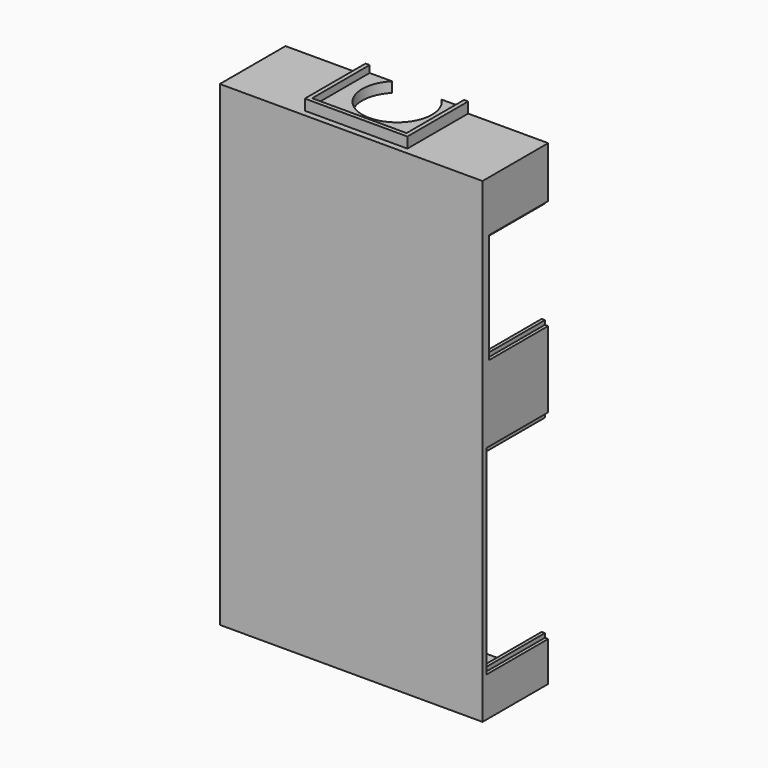
from build123d import *

# Parameters (mm, degrees)
F1_DEPTH  = 25.4
F2_W      = 77.216
F2_H      = 143.256
F3_DEPTH  = 24.13
F4_W      = 0.889
F4_H      = 6.858
F4_W_2    = 6.858
F4_H_2    = 0.889
F5_DEPTH  = 81.281
F6_W      = 5.0038
F6_H      = 0.6858
F7_DEPTH  = 81.281
F8_W      = 5.0038
F8_H      = 0.6858
F9_DEPTH  = 2.032
F10_W     = 5.207
F10_H     = 9.652
F10_W_2   = 3.175
F10_H_2   = 7.62
F10_W_3   = 9.652
F10_H_3   = 5.207
F10_W_4   = 7.62
F10_H_4   = 3.175
F10_W_5   = 9.271
F11_DEPTH = 12.954
F12_W     = 9.144
F12_H     = 4.699
F12_W_2   = 7.62
F12_H_2   = 3.175
F13_DEPTH = 12.954
F14_W     = 0.889
F14_H     = 6.858
F14_W_2   = 6.858
F14_H_2   = 0.889
F15_DEPTH = 81.281
F16_W     = 5.207
F16_H     = 9.652
F16_W_2   = 3.175
F16_H_2   = 7.62
F16_W_3   = 9.652
F16_H_3   = 5.207
F16_W_4   = 7.62
F16_H_4   = 3.175
F17_DEPTH = 12.954
F18_W     = 5.207
F18_H     = 9.652
F18_W_2   = 3.175
F18_H_2   = 7.62
F18_W_3   = 9.652
F18_H_3   = 5.207
F18_W_4   = 7.62
F18_H_4   = 3.175
F19_DEPTH = 12.954
F21_DEPTH = 25.4
F22_W     = 31.75
F22_H     = 23.495
F23_DEPTH = 3.302
F24_W     = 29.21
F24_H     = 22.225
F25_DEPTH = 2.159
F27_DEPTH = 25.4
F29_W     = 22.86
F29_H     = 33.02
F30_DEPTH = 25.4
F31_W     = 22.86
F31_H     = 0.508
F32_DEPTH = 1.016
F34_W     = 22.86
F34_H     = 0.508
F35_DEPTH = 1.016
F36_W     = 22.86
F36_H     = 0.762
F37_DEPTH = 1.016
F33_W     = 22.86
F33_H     = 17.526
F38_DEPTH = 25.4
F39_W     = 1.016
F39_H     = 1.016
F40_DEPTH = 25.4
F41_W     = 1.016
F41_H     = 1.27
F42_DEPTH = 25.4
F43_W     = 23.876
F43_H     = 61.722
F44_DEPTH = 81.281
F45_W     = 1.016
F45_H     = 1.27
F46_DEPTH = 25.4
F47_W     = 1.016
F47_H     = 1.778
F48_DEPTH = 25.4
F49_W     = 1.016
F49_H     = 1.778
F50_DEPTH = 25.4


with BuildPart() as f1:
    # F0 (on Front) → F1 (new body)
    with BuildSketch(Plane.XZ):
        Polygon((36.468155, -40.539946), (36.468155, 73.760054), (-44.811845, 73.760054), (-44.811845, -40.539946), (-44.811845, -73.559946), (36.468155, -73.559946), align=None)
    extrude(amount=F1_DEPTH)

    # F2 (on face) → F3 (cut)
    with BuildSketch(Plane(origin=(0, 0, 0), x_dir=(-1, 0, 0), z_dir=(0, 1, 0))):
        with Locations((4.171845, 0.100054)):
            Rectangle(F2_W, F2_H)
    extrude(amount=-F3_DEPTH, mode=Mode.SUBTRACT)

    # F4 (on face) → F5 (cut, through all)
    with BuildSketch(Plane.YZ.offset(36.468155)):
        with Locations((-12.7, -11.420451)):
            Rectangle(F4_W, F4_H)
        with Locations((-12.7, -19.865951)):
            Rectangle(F4_W_2, F4_H_2)
        with Locations((-12.7, -27.866951)):
            Rectangle(F4_W_2, F4_H_2)
        with Locations((-21.0185, -19.484951)):
            Rectangle(F4_W, F4_H)
        with Locations((-4.3815, -19.484951)):
            Rectangle(F4_W, F4_H)
    extrude(amount=-F5_DEPTH, mode=Mode.SUBTRACT)

    # F6 (on face) → F7 (cut, through all)
    with BuildSketch(Plane.YZ.offset(36.468155)):
        with Locations((-17.4371, 28.509954)):
            Rectangle(F6_W, F6_H)
        with Locations((-7.9629, 28.509954)):
            Rectangle(F6_W, F6_H)
        with Locations((-17.4371, 36.815754)):
            Rectangle(F6_W, F6_H)
        with Locations((-7.9629, 36.815754)):
            Rectangle(F6_W, F6_H)
        with Locations((-17.4371, 45.121554)):
            Rectangle(F6_W, F6_H)
        with Locations((-7.9629, 45.121554)):
            Rectangle(F6_W, F6_H)
        with Locations((-17.4371, 53.427354)):
            Rectangle(F6_W, F6_H)
        with Locations((-7.9629, 53.427354)):
            Rectangle(F6_W, F6_H)
    extrude(amount=-F7_DEPTH, mode=Mode.SUBTRACT)

    # F8 (on face) → F9 (join)
    with BuildSketch(Plane(origin=(-44.811845, 0, 0), x_dir=(0, -1, 0), z_dir=(-1, 0, 0))):
        with Locations((7.9629, 53.427354)):
            Rectangle(F8_W, F8_H)
        with Locations((17.4371, 53.427354)):
            Rectangle(F8_W, F8_H)
        with Locations((7.9629, 45.121554)):
            Rectangle(F8_W, F8_H)
        with Locations((17.4371, 45.121554)):
            Rectangle(F8_W, F8_H)
    extrude(amount=-F9_DEPTH)

    # F10 (on face) → F11 (join)
    with BuildSketch(Plane.YZ.offset(36.468155)):
        with Locations((-12.7, -11.420451)):
            Rectangle(F10_W, F10_H)
        with Locations((-12.7, -11.420451)):
            Rectangle(F10_W_2, F10_H_2, mode=Mode.SUBTRACT)
        with Locations((-21.0185, -19.484951)):
            Rectangle(F10_W, F10_H)
        with Locations((-21.0185, -19.484951)):
            Rectangle(F10_W_2, F10_H_2, mode=Mode.SUBTRACT)
        with Locations((-4.3815, -19.484951)):
            Rectangle(F10_W, F10_H)
        with Locations((-4.3815, -19.484951)):
            Rectangle(F10_W_2, F10_H_2, mode=Mode.SUBTRACT)
        with Locations((-12.7, -19.865951)):
            Rectangle(F10_W_3, F10_H_3)
        with Locations((-12.7, -19.865951)):
            Rectangle(F10_W_4, F10_H_4, mode=Mode.SUBTRACT)
        with Locations((-12.8905, -27.866951)):
            Rectangle(F10_W_5, F10_H_3)
        with Locations((-12.7, -27.866951)):
            Rectangle(F10_W_4, F10_H_4, mode=Mode.SUBTRACT)
    extrude(amount=-F11_DEPTH)

    # F12 (on face) → F13 (join)
    with BuildSketch(Plane.YZ.offset(36.468155)):
        with Locations((-17.4371, 28.509954)):
            Rectangle(F12_W, F12_H)
        with Locations((-17.4371, 28.509954)):
            Rectangle(F12_W_2, F12_H_2, mode=Mode.SUBTRACT)
        with Locations((-7.9629, 28.509954)):
            Rectangle(F12_W, F12_H)
        with Locations((-7.9629, 28.509954)):
            Rectangle(F12_W_2, F12_H_2, mode=Mode.SUBTRACT)
        with Locations((-17.4371, 36.815754)):
            Rectangle(F12_W, F12_H)
        with Locations((-17.4371, 36.815754)):
            Rectangle(F12_W_2, F12_H_2, mode=Mode.SUBTRACT)
        with Locations((-7.9629, 36.815754)):
            Rectangle(F12_W, F12_H)
        with Locations((-7.9629, 36.815754)):
            Rectangle(F12_W_2, F12_H_2, mode=Mode.SUBTRACT)
        with Locations((-17.4371, 45.121554)):
            Rectangle(F12_W, F12_H)
        with Locations((-17.4371, 45.121554)):
            Rectangle(F12_W_2, F12_H_2, mode=Mode.SUBTRACT)
        with Locations((-7.9629, 45.121554)):
            Rectangle(F12_W, F12_H)
        with Locations((-7.9629, 45.121554)):
            Rectangle(F12_W_2, F12_H_2, mode=Mode.SUBTRACT)
        with Locations((-17.4371, 53.427354)):
            Rectangle(F12_W, F12_H)
        with Locations((-17.4371, 53.427354)):
            Rectangle(F12_W_2, F12_H_2, mode=Mode.SUBTRACT)
        with Locations((-7.9629, 53.427354)):
            Rectangle(F12_W, F12_H)
        with Locations((-7.9629, 53.427354)):
            Rectangle(F12_W_2, F12_H_2, mode=Mode.SUBTRACT)
    extrude(amount=-F13_DEPTH)

    # F14 (on face) → F15 (cut, through all)
    with BuildSketch(Plane.YZ.offset(36.468155)):
        with Locations((-12.7, -40.586743)):
            Rectangle(F14_W, F14_H)
        with Locations((-12.7, -49.032243)):
            Rectangle(F14_W_2, F14_H_2)
        with Locations((-12.7, -57.033243)):
            Rectangle(F14_W_2, F14_H_2)
        with Locations((-21.0185, -48.714743)):
            Rectangle(F14_W, F14_H)
        with Locations((-4.3815, -48.714743)):
            Rectangle(F14_W, F14_H)
    extrude(amount=-F15_DEPTH, mode=Mode.SUBTRACT)

    # F16 (on face) → F17 (join)
    with BuildSketch(Plane(origin=(-44.811845, 0, 0), x_dir=(0, -1, 0), z_dir=(-1, 0, 0))):
        with Locations((4.3815, -19.484951)):
            Rectangle(F16_W, F16_H)
        with Locations((4.3815, -19.484951)):
            Rectangle(F16_W_2, F16_H_2, mode=Mode.SUBTRACT)
        with Locations((12.7, -19.865951)):
            Rectangle(F16_W_3, F16_H_3)
        with Locations((12.7, -19.865951)):
            Rectangle(F16_W_4, F16_H_4, mode=Mode.SUBTRACT)
        with Locations((21.0185, -19.484951)):
            Rectangle(F16_W, F16_H)
        with Locations((21.0185, -19.484951)):
            Rectangle(F16_W_2, F16_H_2, mode=Mode.SUBTRACT)
        with Locations((12.7, -11.420451)):
            Rectangle(F16_W, F16_H)
        with Locations((12.7, -11.420451)):
            Rectangle(F16_W_2, F16_H_2, mode=Mode.SUBTRACT)
        with Locations((12.7, -27.866951)):
            Rectangle(F16_W_3, F16_H_3)
        with Locations((12.7, -27.866951)):
            Rectangle(F16_W_4, F16_H_4, mode=Mode.SUBTRACT)
        with Locations((4.3815, -48.714743)):
            Rectangle(F16_W, F16_H)
        with Locations((4.3815, -48.714743)):
            Rectangle(F16_W_2, F16_H_2, mode=Mode.SUBTRACT)
        with Locations((12.7, -49.032243)):
            Rectangle(F16_W_3, F16_H_3)
        with Locations((12.7, -49.032243)):
            Rectangle(F16_W_4, F16_H_4, mode=Mode.SUBTRACT)
        with Locations((21.0185, -48.714743)):
            Rectangle(F16_W, F16_H)
        with Locations((21.0185, -48.714743)):
            Rectangle(F16_W_2, F16_H_2, mode=Mode.SUBTRACT)
        with Locations((12.7, -40.586743)):
            Rectangle(F16_W, F16_H)
        with Locations((12.7, -40.586743)):
            Rectangle(F16_W_2, F16_H_2, mode=Mode.SUBTRACT)
        with Locations((12.7, -57.033243)):
            Rectangle(F16_W_3, F16_H_3)
        with Locations((12.7, -57.033243)):
            Rectangle(F16_W_4, F16_H_4, mode=Mode.SUBTRACT)
    extrude(amount=-F17_DEPTH)

    # F18 (on face) → F19 (join)
    with BuildSketch(Plane.YZ.offset(36.468155)):
        with Locations((-12.7, -40.586743)):
            Rectangle(F18_W, F18_H)
        with Locations((-12.7, -40.586743)):
            Rectangle(F18_W_2, F18_H_2, mode=Mode.SUBTRACT)
        with Locations((-4.3815, -48.714743)):
            Rectangle(F18_W, F18_H)
        with Locations((-4.3815, -48.714743)):
            Rectangle(F18_W_2, F18_H_2, mode=Mode.SUBTRACT)
        with Locations((-12.7, -49.032243)):
            Rectangle(F18_W_3, F18_H_3)
        with Locations((-12.7, -49.032243)):
            Rectangle(F18_W_4, F18_H_4, mode=Mode.SUBTRACT)
        with Locations((-21.0185, -48.714743)):
            Rectangle(F18_W, F18_H)
        with Locations((-21.0185, -48.714743)):
            Rectangle(F18_W_2, F18_H_2, mode=Mode.SUBTRACT)
        with Locations((-12.7, -57.033243)):
            Rectangle(F18_W_3, F18_H_3)
        with Locations((-12.7, -57.033243)):
            Rectangle(F18_W_4, F18_H_4, mode=Mode.SUBTRACT)
    extrude(amount=-F19_DEPTH)

    # F20 (on face) → F21 (join)
    with BuildSketch(Plane(origin=(0, 0, 0), x_dir=(-1, 0, 0), z_dir=(0, 1, 0))):
        with BuildLine():
            ThreePointArc((-34.436155, 66.648054), (-30.844053, 68.135951), (-29.356155, 71.728054))
            Line((-29.356155, 71.728054), (-34.436155, 71.728054))
            Line((-34.436155, 71.728054), (-34.436155, 66.648054))
        make_face()
        with BuildLine():
            Line((42.779845, 71.728054), (37.699845, 71.728054))
            ThreePointArc((37.699845, 71.728054), (39.187742, 68.135951), (42.779845, 66.648054))
            Line((42.779845, 66.648054), (42.779845, 71.728054))
        make_face()
        with BuildLine():
            Line((-34.436155, -71.527946), (-29.356155, -71.527946))
            ThreePointArc((-29.356155, -71.527946), (-30.844053, -67.935844), (-34.436155, -66.447946))
            Line((-34.436155, -66.447946), (-34.436155, -71.527946))
        make_face()
        with BuildLine():
            ThreePointArc((42.779845, -66.447946), (39.187742, -67.935844), (37.699845, -71.527946))
            Line((37.699845, -71.527946), (42.779845, -71.527946))
            Line((42.779845, -71.527946), (42.779845, -66.447946))
        make_face()
    extrude(amount=-F21_DEPTH)

    # F22 (on face) → F23 (join)
    with BuildSketch(Plane.XY.offset(73.760054)):
        with Locations((-4.171845, -11.7475)):
            Rectangle(F22_W, F22_H)
    extrude(amount=F23_DEPTH)

    # F24 (on face) → F25 (cut)
    with BuildSketch(Plane.XY.offset(77.062054)):
        with Locations((-4.171845, -11.1125)):
            Rectangle(F24_W, F24_H)
    extrude(amount=-F25_DEPTH, mode=Mode.SUBTRACT)

    # F26 (on face) → F27 (cut)
    with BuildSketch(Plane.XY.offset(74.903054)):
        with BuildLine():
            Line((3.474568, 0), (-11.818257, 0))
            ThreePointArc((-11.818257, 0), (-4.171845, -18.415), (3.474568, 0))
        make_face()
    extrude(amount=-F27_DEPTH, mode=Mode.SUBTRACT)

    # F29 (on face) → F30 (cut)
    with BuildSketch(Plane.YZ.offset(36.468155)):
        with Locations((-11.43, 40.968654)):
            Rectangle(F29_W, F29_H)
    extrude(amount=-F30_DEPTH, mode=Mode.SUBTRACT)

    # F31 (on face) → F32 (cut)
    with BuildSketch(Plane.YZ.offset(36.468155)):
        with Locations((-11.43, 57.732654)):
            Rectangle(F31_W, F31_H)
        with Locations((-11.43, 24.204654)):
            Rectangle(F31_W, F31_H)
    extrude(amount=-F32_DEPTH, mode=Mode.SUBTRACT)

    # F34 (on face) → F35 (join)
    with BuildSketch(Plane.YZ.offset(35.452155)):
        with Locations((-11.43, 57.224654)):
            Rectangle(F34_W, F34_H)
    extrude(amount=-F35_DEPTH)

    # F36 (on face) → F37 (join)
    with BuildSketch(Plane.YZ.offset(35.452155)):
        with Locations((-11.43, 24.839654)):
            Rectangle(F36_W, F36_H)
    extrude(amount=-F37_DEPTH)

    # F33 (on face) → F38 (cut)
    with BuildSketch(Plane(origin=(-44.811845, 0, 0), x_dir=(0, -1, 0), z_dir=(-1, 0, 0))):
        with Locations((11.43, 33.132754)):
            Rectangle(F33_W, F33_H)
    extrude(amount=-F38_DEPTH, mode=Mode.SUBTRACT)

    # F39 (on face) → F40 (join)
    with BuildSketch(Plane(origin=(0, 0, 0), x_dir=(-1, 0, 0), z_dir=(0, 1, 0))):
        with Locations((43.287845, 41.387754)):
            Rectangle(F39_W, F39_H)
    extrude(amount=-F40_DEPTH)

    # F41 (on face) → F42 (join)
    with BuildSketch(Plane(origin=(0, 0, 0), x_dir=(-1, 0, 0), z_dir=(0, 1, 0))):
        with Locations((43.287845, 25.004754)):
            Rectangle(F41_W, F41_H)
    extrude(amount=-F42_DEPTH)

    # F43 (on face) → F44 (cut, through all)
    with BuildSketch(Plane.YZ.offset(36.468155)):
        with Locations((-11.938, -30.426743)):
            Rectangle(F43_W, F43_H)
    extrude(amount=-F44_DEPTH, mode=Mode.SUBTRACT)

    # F45 (on face) → F46 (join)
    with BuildSketch(Plane(origin=(0, 0, 0), x_dir=(-1, 0, 0), z_dir=(0, 1, 0))):
        with Locations((-34.944155, -60.652743)):
            Rectangle(F45_W, F45_H)
        with Locations((43.287845, -60.652743)):
            Rectangle(F45_W, F45_H)
    extrude(amount=-F46_DEPTH)

    # F47 (on face) → F48 (join)
    with BuildSketch(Plane(origin=(0, 0, 0), x_dir=(-1, 0, 0), z_dir=(0, 1, 0))):
        with Locations((-34.944155, -0.454743)):
            Rectangle(F47_W, F47_H)
    extrude(amount=-F48_DEPTH)

    # F49 (on face) → F50 (join)
    with BuildSketch(Plane(origin=(0, 0, 0), x_dir=(-1, 0, 0), z_dir=(0, 1, 0))):
        with Locations((43.287845, -0.454743)):
            Rectangle(F49_W, F49_H)
    extrude(amount=-F50_DEPTH)


solid = f1.part
